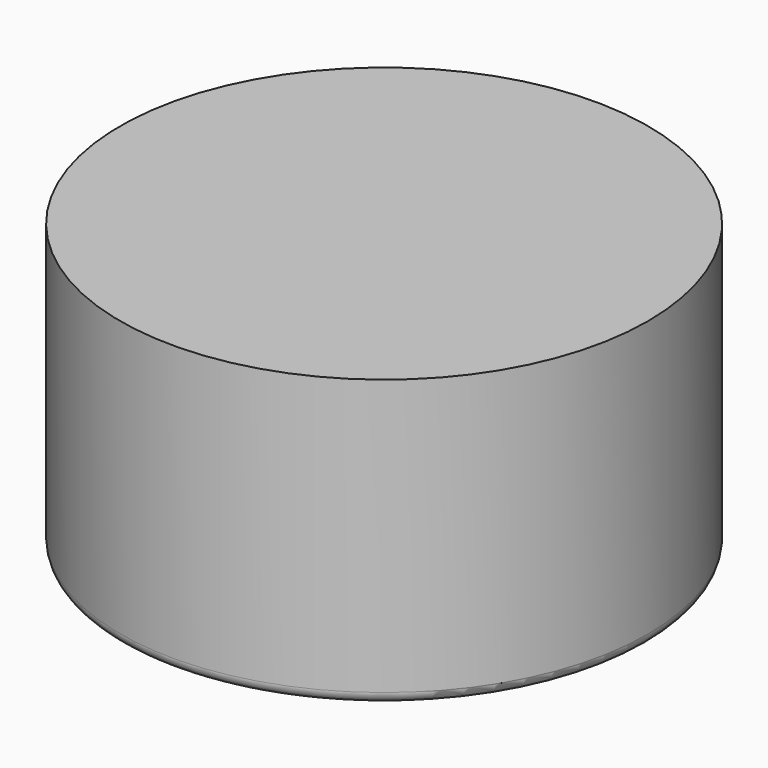
from build123d import *

# Parameters (mm, degrees)
F0_R     = 23
F0_R_2   = 20
F1_DEPTH = 20
F2_R     = 23
F3_DEPTH = 5
F4_R     = 1
F5_R     = 1


with BuildPart() as f1:
    # F0 (on Top) → F1 (new body)
    with BuildSketch(Plane.XY):
        Circle(F0_R)
        Circle(F0_R_2, mode=Mode.SUBTRACT)
    extrude(amount=F1_DEPTH)

    # F2 (on face) → F3 (join)
    with BuildSketch(Plane.XY.offset(20)):
        Circle(F2_R)
    extrude(amount=F3_DEPTH)

    # F4
    f4_edges = [f1.edges().sort_by_distance(p)[0] for p in [
        (-20, 0, 0),
    ]]
    fillet(f4_edges, radius=F4_R)

    # F5
    f5_edges = [f1.edges().sort_by_distance(p)[0] for p in [
        (-23, 0, 0),
    ]]
    fillet(f5_edges, radius=F5_R)


solid = f1.part
